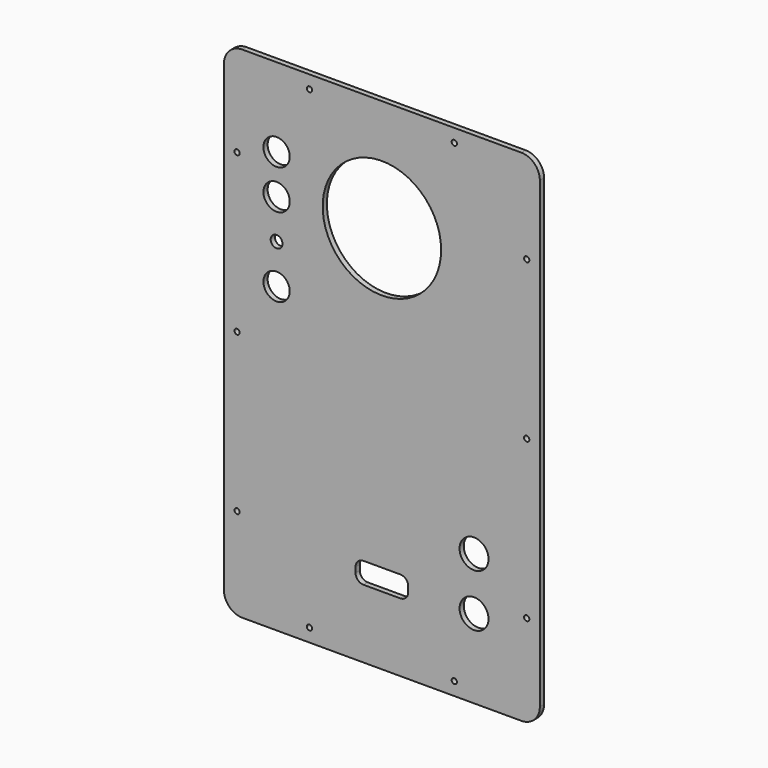
from build123d import *

# Parameters (mm, degrees)
F0_R     = 5.5
F0_R_2   = 5
F0_R_3   = 2.25
F0_R_4   = 22.5
F1_DEPTH = 2
F2_D     = 2


with BuildPart() as f1:
    # F0 (on Front) → F1 (new body)
    with BuildSketch(Plane.XZ):
        with BuildLine():
            ThreePointArc((60, 88), (57.949747, 92.949747), (53, 95))
            Line((53, 95), (-53, 95))
            ThreePointArc((-53, 95), (-57.949747, 92.949747), (-60, 88))
            Line((-60, 88), (-60, -88))
            ThreePointArc((-60, -88), (-57.949747, -92.949747), (-53, -95))
            Line((-53, -95), (53, -95))
            ThreePointArc((53, -95), (57.949747, -92.949747), (60, -88))
            Line((60, -88), (60, 88))
        make_face()
        with BuildLine():
            ThreePointArc((10, -66), (9.12132, -68.12132), (7, -69))
            Line((7, -69), (-7, -69))
            ThreePointArc((-7, -69), (-9.12132, -68.12132), (-10, -66))
            Line((-10, -66), (-10, -64))
            ThreePointArc((-10, -64), (-9.12132, -61.87868), (-7, -61))
            Line((-7, -61), (7, -61))
            ThreePointArc((7, -61), (9.12132, -61.87868), (10, -64))
            Line((10, -64), (10, -66))
        make_face(mode=Mode.SUBTRACT)
        with Locations((35, -65)):
            Circle(F0_R, mode=Mode.SUBTRACT)
        with Locations((35, -45)):
            Circle(F0_R, mode=Mode.SUBTRACT)
        with Locations((-40, 20)):
            Circle(F0_R_2, mode=Mode.SUBTRACT)
        with Locations((-40, 35)):
            Circle(F0_R_3, mode=Mode.SUBTRACT)
        with Locations((-40, 50)):
            Circle(F0_R_2, mode=Mode.SUBTRACT)
        with Locations((-40, 65)):
            Circle(F0_R_2, mode=Mode.SUBTRACT)
        with Locations((0, 52.5)):
            Circle(F0_R_4, mode=Mode.SUBTRACT)
    extrude(amount=F1_DEPTH)

    # F2 (through all)
    with Locations(Plane(origin=(0, 0, 0), x_dir=(1, 0, 0), z_dir=(0, 1, 0))):
        with Locations((-27.5, 90), (-55, 60), (-55, 0), (-55, -60), (-27.5, -90), (27.5, -90), (55, -60), (55, 0), (55, 60), (27.5, 90)):
            Hole(F2_D / 2)


solid = f1.part
